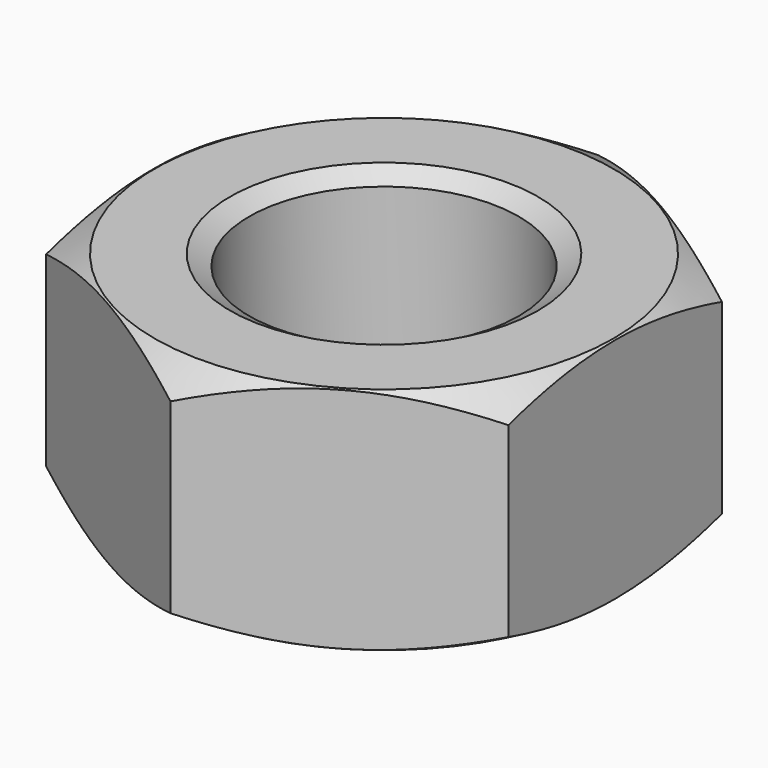
from build123d import *

# Parameters (mm, degrees)
SKETCH001_R  = 18
POCKET_DEPTH = 14.9


with BuildPart() as part:
    # Sketch → Revolution (revolve)
    with BuildSketch(Plane.XZ):
        Polygon((10, 0), (8.75, 0.721688), (8.75, 14.178312), (10, 14.9), (14.9, 14.9), (18, 13.110214), (18, 1.789786), (14.9, 0), align=None)
    revolve(axis=Axis((0, 0, 0), (0, 0, 1)))

    # Sketch001 → Pocket (cut)
    with BuildSketch(Plane(origin=(0, 0, 14.9), x_dir=(-1, 0, 0), z_dir=(0, 0, 1))):
        Circle(SKETCH001_R)
        Polygon((-15, 8.660254), (-15, -8.660254), (0, -17.320508), (15, -8.660254), (15, 8.660254), (0, 17.320508), align=None, mode=Mode.SUBTRACT)
    extrude(amount=-POCKET_DEPTH, mode=Mode.SUBTRACT)


solid = part.part
